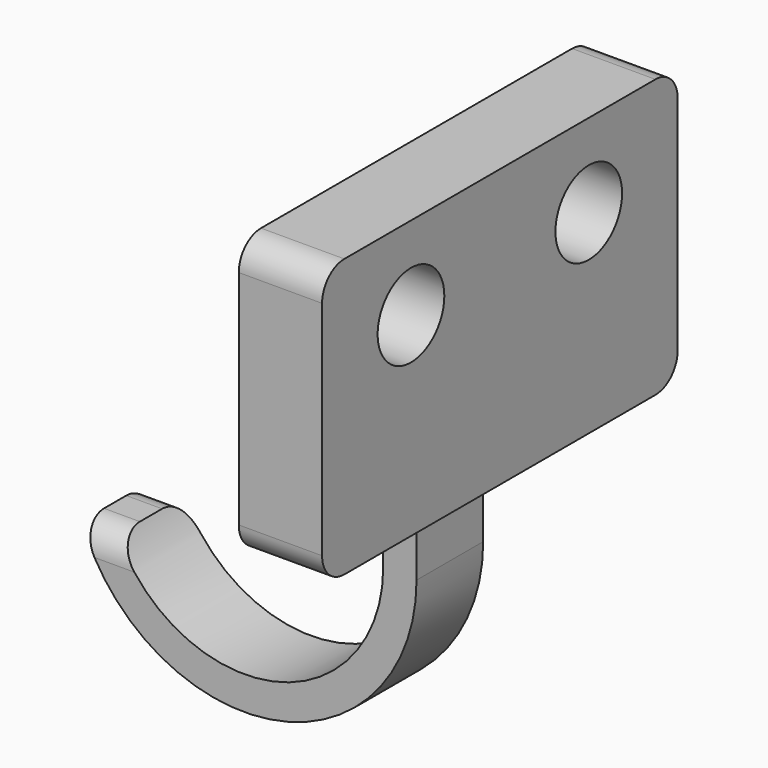
from build123d import *

# Parameters (mm, degrees)
F0_W     = 7.62
F0_H     = 19.05
F1_DEPTH = 9.525
F2_DEPTH = 50.8
F3_R     = 9.525
F4_DEPTH = 19.051
F5_R     = 9.525
F6_DEPTH = 12.7
F8_DEPTH = 2540
F9_R     = 6.35


with BuildPart() as f1:
    # F0 (on Front) → F1 (new body, symmetric)
    with BuildSketch(Plane.XZ):
        with Locations((3.81, -9.525)):
            Rectangle(F0_W, F0_H)
        with BuildLine():
            Line((7.62, -19.05), (0, -19.05))
            ThreePointArc((0, -19.05), (-25.0864929701, -50.0928763819), (-60.7030030905, -32.0802))
            Line((-60.7030030905, -32.0802), (-68.9011882443, -32.0802))
            ThreePointArc((-68.9011882443, -32.0802), (-25.1411188986, -57.8613332751), (7.62, -19.05))
        make_face()
    extrude(amount=F1_DEPTH, both=True)

    # F0 (on Front) → F2 (join, symmetric)
    with BuildSketch(Plane.XZ):
        Polygon((0, 63.5), (0, 0), (7.62, 0), (19.05, 0), (19.05, 63.5), align=None)
    extrude(amount=F2_DEPTH, both=True)

    # F3 (on Right) → F4 (cut, through all)
    with BuildSketch(Plane.YZ):
        with Locations((25.4, 44.45)):
            Circle(F3_R)
        with Locations((-25.4, 44.45)):
            Circle(F3_R)
    extrude(amount=F4_DEPTH, mode=Mode.SUBTRACT)

    # F5 (on face) → F6 (cut)
    with BuildSketch(Plane(origin=(0, 0, 0), x_dir=(0, -1, 0), z_dir=(-1, 0, 0))):
        with Locations((0, 25.4)):
            Circle(F5_R)
    extrude(amount=-F6_DEPTH, mode=Mode.SUBTRACT)

    # F7 (on Right) → F8 (cut, symmetric)
    with BuildSketch(Plane.YZ):
        with BuildLine():
            ThreePointArc((44.45, 63.5), (48.9401280605, 61.6401280605), (50.8, 57.15))
            Line((50.8, 57.15), (50.8, 63.5))
            Line((50.8, 63.5), (44.45, 63.5))
        make_face()
        with BuildLine():
            Line((-50.8, 63.5), (-50.8, 57.15))
            ThreePointArc((-50.8, 57.15), (-48.9401280605, 61.6401280605), (-44.45, 63.5))
            Line((-44.45, 63.5), (-50.8, 63.5))
        make_face()
        with BuildLine():
            Line((50.8, 0), (50.8, 6.35))
            ThreePointArc((50.8, 6.35), (48.9401280605, 1.8598719395), (44.45, 0))
            Line((44.45, 0), (50.8, 0))
        make_face()
        with BuildLine():
            Line((-50.8, 0), (-44.45, 0))
            ThreePointArc((-44.45, 0), (-48.9401280605, 1.8598719395), (-50.8, 6.35))
            Line((-50.8, 6.35), (-50.8, 0))
        make_face()
    extrude(amount=F8_DEPTH, both=True, mode=Mode.SUBTRACT)

    # F9
    f9_edges = [f1.edges().sort_by_distance(p)[0] for p in [
        (-64.802096, 9.525, -32.0802),
        (-64.802096, -9.525, -32.0802),
    ]]
    fillet(f9_edges, radius=F9_R)


solid = f1.part
